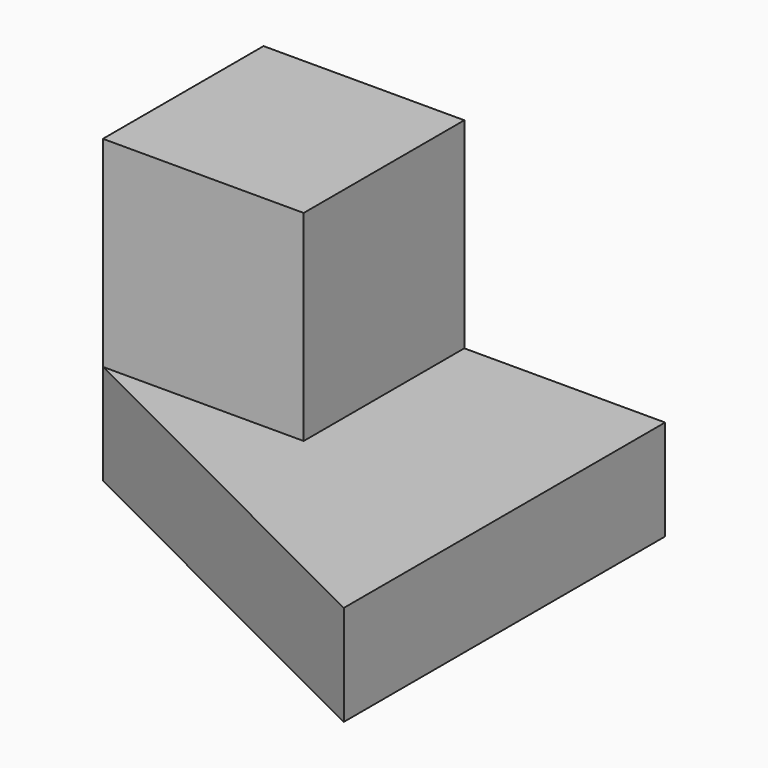
from build123d import *

# Parameters (mm, degrees)
PAD_DEPTH    = 5
SKETCH001_W  = 20
SKETCH001_H  = 20
PAD001_DEPTH = 20


with BuildPart() as part:
    # Sketch → Pad (new body, symmetric)
    with BuildSketch(Plane.XY):
        Polygon((-20, 20), (-20, 0), (20, -20), (20, 20), align=None)
    extrude(amount=PAD_DEPTH, both=True)

    # Sketch001 (on Face6 of Pad) → Pad001 (join)
    with BuildSketch(Plane.XY.offset(5)):
        with Locations((-10, 10)):
            Rectangle(SKETCH001_W, SKETCH001_H)
    extrude(amount=PAD001_DEPTH)


solid = part.part
